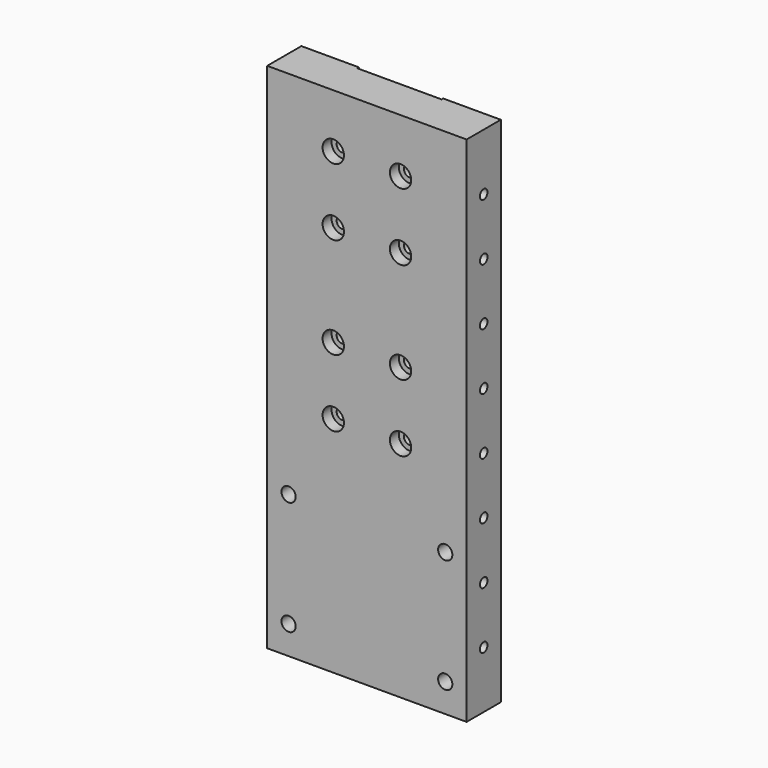
from build123d import *

# Parameters (mm, degrees)
F0_W      = 88.9
F0_H      = 228.6
F1_DEPTH  = 19.05
F3_DEPTH  = 19.051
F4_R      = 4.7625
F5_DEPTH  = 5
F6_R      = 2.1
F7_DEPTH  = 12.7
F8_R      = 2.1
F9_DEPTH  = 12.7
F10_R     = 2.1
F10_R_2   = 2.0955
F11_DEPTH = 12.7
F12_W     = 37.5
F12_H     = 142.00124
F13_DEPTH = 0.889
F14_R     = 3.175
F15_DEPTH = 19.051


with BuildPart() as f1:
    # F0 (on Front) → F1 (new body)
    with BuildSketch(Plane.XZ):
        Rectangle(F0_W, F0_H)
    extrude(amount=-F1_DEPTH)

    # F2 (on face) → F3 (cut, through all)
    with BuildSketch(Plane.XZ):
        with BuildLine():
            ThreePointArc((-12.5, 90.3), (-15, 92.8), (-17.5, 90.3))
            Line((-17.5, 90.3), (-12.5, 90.3))
        make_face()
        with BuildLine():
            ThreePointArc((17.5, 90.3), (15, 92.8), (12.5, 90.3))
            Line((12.5, 90.3), (17.5, 90.3))
        make_face()
        with BuildLine():
            Line((17.5, 90.3), (12.5, 90.3))
            ThreePointArc((12.5, 90.3), (15, 87.8), (17.5, 90.3))
        make_face()
        with BuildLine():
            Line((-12.5, 90.3), (-17.5, 90.3))
            ThreePointArc((-17.5, 90.3), (-15, 87.8), (-12.5, 90.3))
        make_face()
        with BuildLine():
            ThreePointArc((-12.5, 60.3), (-15, 62.8), (-17.5, 60.3))
            Line((-17.5, 60.3), (-12.5, 60.3))
        make_face()
        with BuildLine():
            ThreePointArc((17.5, 60.3), (15, 62.8), (12.5, 60.3))
            Line((12.5, 60.3), (17.5, 60.3))
        make_face()
        with BuildLine():
            Line((17.5, 60.3), (12.5, 60.3))
            ThreePointArc((12.5, 60.3), (15, 57.8), (17.5, 60.3))
        make_face()
        with BuildLine():
            Line((-12.5, 60.3), (-17.5, 60.3))
            ThreePointArc((-17.5, 60.3), (-15, 57.8), (-12.5, 60.3))
        make_face()
        with BuildLine():
            ThreePointArc((-12.5, 15.3), (-15, 17.8), (-17.5, 15.3))
            Line((-17.5, 15.3), (-12.5, 15.3))
        make_face()
        with BuildLine():
            ThreePointArc((17.5, 15.3), (15, 17.8), (12.5, 15.3))
            Line((12.5, 15.3), (17.5, 15.3))
        make_face()
        with BuildLine():
            Line((17.5, 15.3), (12.5, 15.3))
            ThreePointArc((12.5, 15.3), (15, 12.8), (17.5, 15.3))
        make_face()
        with BuildLine():
            Line((-12.5, 15.3), (-17.5, 15.3))
            ThreePointArc((-17.5, 15.3), (-15, 12.8), (-12.5, 15.3))
        make_face()
        with BuildLine():
            ThreePointArc((-12.5, -14.7), (-15, -12.2), (-17.5, -14.7))
            Line((-17.5, -14.7), (-12.5, -14.7))
        make_face()
        with BuildLine():
            ThreePointArc((17.5, -14.7), (15, -12.2), (12.5, -14.7))
            Line((12.5, -14.7), (17.5, -14.7))
        make_face()
        with BuildLine():
            Line((17.5, -14.7), (12.5, -14.7))
            ThreePointArc((12.5, -14.7), (15, -17.2), (17.5, -14.7))
        make_face()
        with BuildLine():
            Line((-12.5, -14.7), (-17.5, -14.7))
            ThreePointArc((-17.5, -14.7), (-15, -17.2), (-12.5, -14.7))
        make_face()
    extrude(amount=-F3_DEPTH, mode=Mode.SUBTRACT)

    # F4 (on face) → F5 (cut)
    with BuildSketch(Plane.XZ):
        with Locations((-15, -14.7)):
            Circle(F4_R)
        with Locations((15, -14.7)):
            Circle(F4_R)
        with Locations((15, 15.3)):
            Circle(F4_R)
        with Locations((-15, 15.3)):
            Circle(F4_R)
        with Locations((-15, 60.3)):
            Circle(F4_R)
        with Locations((15, 60.3)):
            Circle(F4_R)
        with Locations((-15, 90.3)):
            Circle(F4_R)
        with Locations((15, 90.3)):
            Circle(F4_R)
    extrude(amount=-F5_DEPTH, mode=Mode.SUBTRACT)

    # F6 (on face) → F7 (cut)
    with BuildSketch(Plane(origin=(-44.45, 0, 0), x_dir=(0, -1, 0), z_dir=(-1, 0, 0))):
        with Locations((-9.525, 88.9)):
            Circle(F6_R)
        with Locations((-9.525, 63.5)):
            Circle(F6_R)
        with Locations((-9.525, 38.1)):
            Circle(F6_R)
        with Locations((-9.525, 12.7)):
            Circle(F6_R)
        with Locations((-9.525, -12.7)):
            Circle(F6_R)
        with Locations((-9.525, -38.1)):
            Circle(F6_R)
        with Locations((-9.525, -63.5)):
            Circle(F6_R)
        with Locations((-9.525, -88.9)):
            Circle(F6_R)
    extrude(amount=-F7_DEPTH, mode=Mode.SUBTRACT)

    # F8 (on face) → F9 (cut)
    with BuildSketch(Plane.YZ.offset(44.45)):
        with Locations((9.525, 88.9)):
            Circle(F8_R)
        with Locations((9.525, 63.5)):
            Circle(F8_R)
        with Locations((9.525, 38.1)):
            Circle(F8_R)
        with Locations((9.525, 12.7)):
            Circle(F8_R)
        with Locations((9.525, -63.5)):
            Circle(F8_R)
        with Locations((9.525, -12.7)):
            Circle(F8_R)
        with Locations((9.525, -38.1)):
            Circle(F8_R)
        with Locations((9.525, -88.9)):
            Circle(F8_R)
    extrude(amount=-F9_DEPTH, mode=Mode.SUBTRACT)

    # F10 (on face) → F11 (cut)
    with BuildSketch(Plane(origin=(0, 0, -114.3), x_dir=(1, 0, 0), z_dir=(0, 0, -1))):
        with Locations((-25.4, -9.525)):
            Circle(F10_R)
        with Locations((25.4, -9.525)):
            Circle(F10_R)
        with Locations((0, -9.525)):
            Circle(F10_R_2)
    extrude(amount=-F11_DEPTH, mode=Mode.SUBTRACT)

    # F12 (on face) → F13 (cut)
    with BuildSketch(Plane(origin=(0, 19.05, 0), x_dir=(-1, 0, 0), z_dir=(0, 1, 0))):
        with Locations((0, 43.29938)):
            Rectangle(F12_W, F12_H)
    extrude(amount=-F13_DEPTH, mode=Mode.SUBTRACT)

    # F14 (on face) → F15 (cut, through all)
    with BuildSketch(Plane.XZ):
        with Locations((-34.925, -50.8)):
            Circle(F14_R)
        with Locations((-34.925, -101.6)):
            Circle(F14_R)
        with Locations((34.925, -50.8)):
            Circle(F14_R)
        with Locations((34.925, -101.6)):
            Circle(F14_R)
    extrude(amount=-F15_DEPTH, mode=Mode.SUBTRACT)


solid = f1.part
